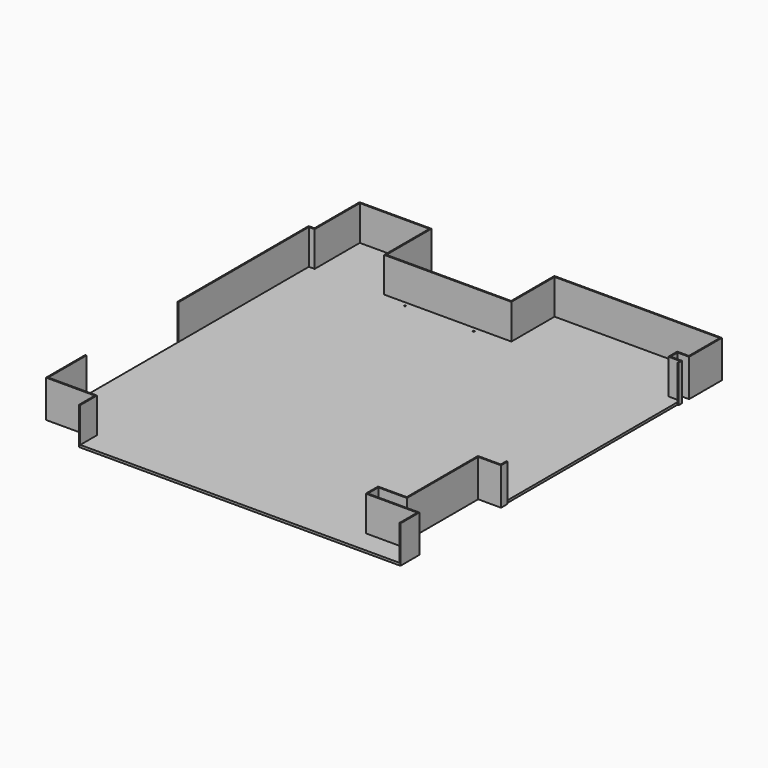
from build123d import *

# Parameters (mm, degrees)
F1_DEPTH      = 20
F3_DEPTH      = 300
F3_DEPTH_BACK = 20
F4_R          = 7.5
F5_DEPTH      = 25


with BuildPart() as f1:
    # F0 (on Top) → F1 (new body)
    with BuildSketch(Plane.XY):
        Polygon((-1091, 1216.2794832001), (-1688, 1216.2794832001), (-1688, 732.2794832001), (-1738, 732.2794832001), (-1738, -728.7205167999), (-1738, -2063.5149478912), (-1319.513422966, -2063.5149478912), (-1319.513422966, -2242.7836989618), (1418, -2242.7836989618), (1418, -2049.7205167999), (975.9391716612, -2049.7205167999), (975.9391716612, -1917.7205167999), (1221.8529838713, -1917.7205167999), (1221.8529838713, -1153.7205167999), (1418, -1153.7205167999), (1418, 662.2794832001), (1418, 768.2794832001), (1318.3475743792, 768.2794832001), (1318.3475743792, 863.2794832001), (1418, 863.2794832001), (1418, 1195.2794832001), (0, 1195.2794832001), (0, 732.2794832001), (-1091, 732.2794832001), align=None)
    extrude(amount=F1_DEPTH)

    # F4 (on face) → F5 (cut)
    with BuildSketch(Plane.XY.offset(20)):
        with Locations((-880.3910539482, 692.2794832001)):
            Circle(F4_R)
        with Locations((-290.3910539482, 692.2794832001)):
            Circle(F4_R)
    extrude(amount=-F5_DEPTH, mode=Mode.SUBTRACT)


with BuildPart() as f3:
    # F2 (on face) → F3 (new body, two sides)
    with BuildSketch(Plane.XY.offset(20)) as f3_sk:
        Polygon((-1738, -2063.5149478912), (-1738, -1652.2065401077), (-1748, -1652.2065401077), (-1748, -2073.5149478912), (-1329.513422966, -2073.5149478912), (-1329.513422966, -2242.7836989618), (-1319.513422966, -2242.7836989618), (-1319.513422966, -2063.5149478912), align=None)
    extrude(amount=F3_DEPTH)
    extrude(f3_sk.sketch, amount=-F3_DEPTH_BACK)


with BuildPart() as f3b:
    # F2 (on face) → F3, piece 2 (new body, two sides)
    with BuildSketch(Plane.XY.offset(20)) as f3_2_sk:
        Polygon((-1738, -665.6177323455), (-1738, 732.2794832001), (-1688, 732.2794832001), (-1688, 1216.2794832001), (-1091, 1216.2794832001), (-1091, 732.2794832001), (0, 732.2794832001), (0, 1195.2794832001), (1418, 1195.2794832001), (1418, 863.2794832001), (1318.3475743792, 863.2794832001), (1318.3475743792, 768.2794832001), (1418, 768.2794832001), (1418, 741.4960861206), (1428, 741.4960861206), (1428, 778.2794832001), (1328.3475743792, 778.2794832001), (1328.3475743792, 853.2794832001), (1428, 853.2794832001), (1428, 1205.2794832001), (-10, 1205.2794832001), (-10, 742.2794832001), (-1081, 742.2794832001), (-1081, 1226.2794832001), (-1698, 1226.2794832001), (-1698, 742.2794832001), (-1748, 742.2794832001), (-1748, -665.6177323455), align=None)
    extrude(amount=F3_DEPTH)
    extrude(f3_2_sk.sketch, amount=-F3_DEPTH_BACK)


with BuildPart() as f3c:
    # F2 (on face) → F3, piece 3 (new body, two sides)
    with BuildSketch(Plane.XY.offset(20)) as f3_3_sk:
        Polygon((1418, -2049.7205167999), (1418, -2242.7836989618), (1428, -2242.7836989618), (1428, -2039.7205167999), (985.9391716612, -2039.7205167999), (985.9391716612, -1927.7205167999), (1231.8529838713, -1927.7205167999), (1231.8529838713, -1163.7205167999), (1428, -1163.7205167999), (1428, -1092.465877533), (1418, -1092.465877533), (1418, -1153.7205167999), (1221.8529838713, -1153.7205167999), (1221.8529838713, -1917.7205167999), (975.9391716612, -1917.7205167999), (975.9391716612, -2049.7205167999), align=None)
    extrude(amount=F3_DEPTH)
    extrude(f3_3_sk.sketch, amount=-F3_DEPTH_BACK)


solid = Compound([f1.part, f3.part, f3b.part, f3c.part])
